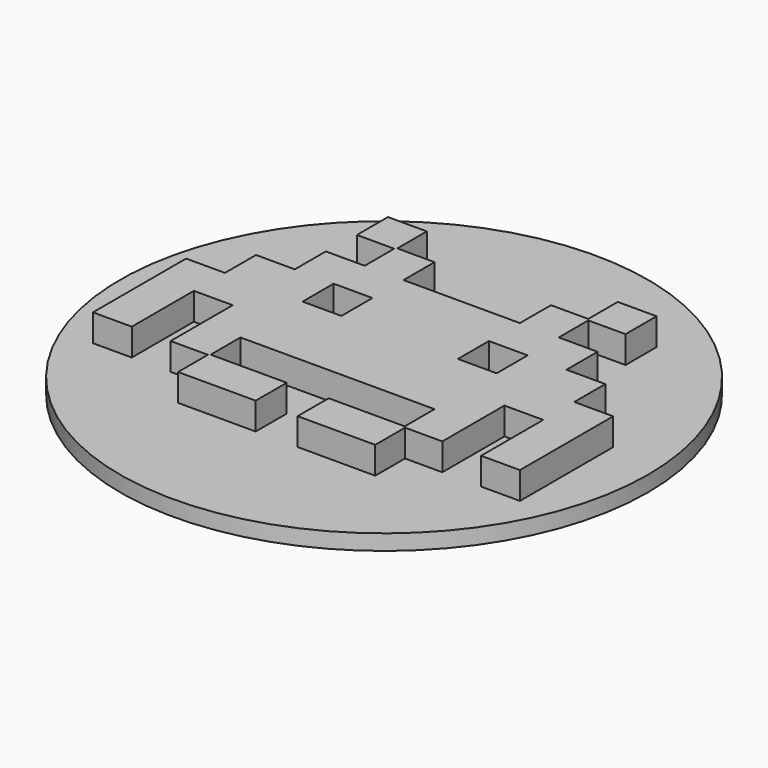
from build123d import *

# Parameters (mm, degrees)
BOX011_W       = 10
BOX011_H       = 10
BOX011_DEPTH   = 10
BOX012_W       = 10
BOX012_H       = 10
BOX012_DEPTH   = 10
BOX001_W       = 10
BOX001_H       = 10
BOX001_DEPTH   = 10
BOX003_W       = 10
BOX003_H       = 10
BOX003_DEPTH   = 10
BOX020_W       = 10
BOX020_H       = 10
BOX020_DEPTH   = 10
BOX019_W       = 10
BOX019_H       = 10
BOX019_DEPTH   = 10
BOX024_W       = 10
BOX024_H       = 10
BOX024_DEPTH   = 10
BOX017_W       = 10
BOX017_H       = 10
BOX017_DEPTH   = 10
BOX007_W       = 10
BOX007_H       = 10
BOX007_DEPTH   = 10
BOX013_W       = 10
BOX013_H       = 10
BOX013_DEPTH   = 10
BOX006_W       = 10
BOX006_H       = 10
BOX006_DEPTH   = 10
BOX005_W       = 10
BOX005_H       = 10
BOX005_DEPTH   = 10
BOX002_W       = 10
BOX002_H       = 10
BOX002_DEPTH   = 10
BOX015_W       = 10
BOX015_H       = 10
BOX015_DEPTH   = 10
BOX023_W       = 10
BOX023_H       = 10
BOX023_DEPTH   = 10
BOX004_W       = 10
BOX004_H       = 10
BOX004_DEPTH   = 10
BOX014_W       = 10
BOX014_H       = 10
BOX014_DEPTH   = 10
BOX009_W       = 10
BOX009_H       = 10
BOX009_DEPTH   = 10
BOX016_W       = 10
BOX016_H       = 10
BOX016_DEPTH   = 10
BOX010_W       = 10
BOX010_H       = 10
BOX010_DEPTH   = 10
BOX_W          = 10
BOX_H          = 10
BOX_DEPTH      = 10
BOX022_W       = 10
BOX022_H       = 10
BOX022_DEPTH   = 10
BOX018_W       = 10
BOX018_H       = 10
BOX018_DEPTH   = 10
BOX021_W       = 10
BOX021_H       = 10
BOX021_DEPTH   = 10
BOX008_W       = 10
BOX008_H       = 10
BOX008_DEPTH   = 10
CYLINDER_R     = 68
CYLINDER_DEPTH = 4


with BuildPart() as cubo011:
    # Box011 → Box011 (new body)
    with BuildSketch(Plane(origin=(-25, -5, 0), x_dir=(1, 0, 0), z_dir=(0, 0, 1))):
        with Locations((5, 5)):
            Rectangle(BOX011_W, BOX011_H)
    extrude(amount=BOX011_DEPTH)


with BuildPart() as cubo012:
    # Box012 → Box012 (new body)
    with BuildSketch(Plane(origin=(-15, -5, 0), x_dir=(1, 0, 0), z_dir=(0, 0, 1))):
        with Locations((5, 5)):
            Rectangle(BOX012_W, BOX012_H)
    extrude(amount=BOX012_DEPTH)


with BuildPart() as cubo001:
    # Box001 → Box001 (new body)
    with BuildSketch(Plane(origin=(-34.6, 34.5, 0), x_dir=(1, 0, 0), z_dir=(0, 0, 1))):
        with Locations((5, 5)):
            Rectangle(BOX001_W, BOX001_H)
    extrude(amount=BOX001_DEPTH)


with BuildPart() as cubo003:
    # Box003 → Box003 (new body)
    with BuildSketch(Plane(origin=(-25, 15, 0), x_dir=(1, 0, 0), z_dir=(0, 0, 1))):
        with Locations((5, 5)):
            Rectangle(BOX003_W, BOX003_H)
    extrude(amount=BOX003_DEPTH)


with BuildPart() as cubo020:
    # Box020 → Box020 (new body)
    with BuildSketch(Plane(origin=(-15.4, -34.6, 0), x_dir=(1, 0, 0), z_dir=(0, 0, 1))):
        with Locations((5, 5)):
            Rectangle(BOX020_W, BOX020_H)
    extrude(amount=BOX020_DEPTH)


with BuildPart() as cubo019:
    # Box019 → Box019 (new body)
    with BuildSketch(Plane(origin=(-25.4, -34.6, 0), x_dir=(1, 0, 0), z_dir=(0, 0, 1))):
        with Locations((5, 5)):
            Rectangle(BOX019_W, BOX019_H)
    extrude(amount=BOX019_DEPTH)


with BuildPart() as cubo024:
    # Box024 → Box024 (new body)
    with BuildSketch(Plane(origin=(-5, -15, 0), x_dir=(1, 0, 0), z_dir=(0, 0, 1))):
        with Locations((5, 5)):
            Rectangle(BOX024_W, BOX024_H)
    extrude(amount=BOX024_DEPTH)


with BuildPart() as cubo017:
    # Box017 → Box017 (new body)
    with BuildSketch(Plane(origin=(-25, -15, 0), x_dir=(1, 0, 0), z_dir=(0, 0, 1))):
        with Locations((5, 5)):
            Rectangle(BOX017_W, BOX017_H)
    extrude(amount=BOX017_DEPTH)


with BuildPart() as cubo007:
    # Box007 → Box007 (new body)
    with BuildSketch(Plane(origin=(-15, 5, 0), x_dir=(1, 0, 0), z_dir=(0, 0, 1))):
        with Locations((5, 5)):
            Rectangle(BOX007_W, BOX007_H)
    extrude(amount=BOX007_DEPTH)


with BuildPart() as cubo013:
    # Box013 → Box013 (new body)
    with BuildSketch(Plane(origin=(-55, -15, 0), x_dir=(1, 0, 0), z_dir=(0, 0, 1))):
        with Locations((5, 5)):
            Rectangle(BOX013_W, BOX013_H)
    extrude(amount=BOX013_DEPTH)


with BuildPart() as cubo006:
    # Box006 → Box006 (new body)
    with BuildSketch(Plane(origin=(-35, 5, 0), x_dir=(1, 0, 0), z_dir=(0, 0, 1))):
        with Locations((5, 5)):
            Rectangle(BOX006_W, BOX006_H)
    extrude(amount=BOX006_DEPTH)


with BuildPart() as cubo005:
    # Box005 → Box005 (new body)
    with BuildSketch(Plane(origin=(-45, 5, 0), x_dir=(1, 0, 0), z_dir=(0, 0, 1))):
        with Locations((5, 5)):
            Rectangle(BOX005_W, BOX005_H)
    extrude(amount=BOX005_DEPTH)


with BuildPart() as cubo002:
    # Box002 → Box002 (new body)
    with BuildSketch(Plane(origin=(-25, 25, 0), x_dir=(1, 0, 0), z_dir=(0, 0, 1))):
        with Locations((5, 5)):
            Rectangle(BOX002_W, BOX002_H)
    extrude(amount=BOX002_DEPTH)


with BuildPart() as cubo015:
    # Box015 → Box015 (new body)
    with BuildSketch(Plane(origin=(-35, -15, 0), x_dir=(1, 0, 0), z_dir=(0, 0, 1))):
        with Locations((5, 5)):
            Rectangle(BOX015_W, BOX015_H)
    extrude(amount=BOX015_DEPTH)


with BuildPart() as cubo023:
    # Box023 → Box023 (new body)
    with BuildSketch(Plane(origin=(-5, -5, 0), x_dir=(1, 0, 0), z_dir=(0, 0, 1))):
        with Locations((5, 5)):
            Rectangle(BOX023_W, BOX023_H)
    extrude(amount=BOX023_DEPTH)


with BuildPart() as cubo004:
    # Box004 → Box004 (new body)
    with BuildSketch(Plane(origin=(-15, 15, 0), x_dir=(1, 0, 0), z_dir=(0, 0, 1))):
        with Locations((5, 5)):
            Rectangle(BOX004_W, BOX004_H)
    extrude(amount=BOX004_DEPTH)


with BuildPart() as cubo014:
    # Box014 → Box014 (new body)
    with BuildSketch(Plane(origin=(-55, -25, 0), x_dir=(1, 0, 0), z_dir=(0, 0, 1))):
        with Locations((5, 5)):
            Rectangle(BOX014_W, BOX014_H)
    extrude(amount=BOX014_DEPTH)


with BuildPart() as cubo009:
    # Box009 → Box009 (new body)
    with BuildSketch(Plane(origin=(-45, -5, 0), x_dir=(1, 0, 0), z_dir=(0, 0, 1))):
        with Locations((5, 5)):
            Rectangle(BOX009_W, BOX009_H)
    extrude(amount=BOX009_DEPTH)


with BuildPart() as cubo016:
    # Box016 → Box016 (new body)
    with BuildSketch(Plane(origin=(-35, -25, 0), x_dir=(1, 0, 0), z_dir=(0, 0, 1))):
        with Locations((5, 5)):
            Rectangle(BOX016_W, BOX016_H)
    extrude(amount=BOX016_DEPTH)


with BuildPart() as cubo010:
    # Box010 → Box010 (new body)
    with BuildSketch(Plane(origin=(-35, -5, 0), x_dir=(1, 0, 0), z_dir=(0, 0, 1))):
        with Locations((5, 5)):
            Rectangle(BOX010_W, BOX010_H)
    extrude(amount=BOX010_DEPTH)


with BuildPart() as cubo:
    # Box → Box (new body)
    with BuildSketch(Plane(origin=(-35, 15, 0), x_dir=(1, 0, 0), z_dir=(0, 0, 1))):
        with Locations((5, 5)):
            Rectangle(BOX_W, BOX_H)
    extrude(amount=BOX_DEPTH)


with BuildPart() as cubo022:
    # Box022 → Box022 (new body)
    with BuildSketch(Plane(origin=(-5, 5, 0), x_dir=(1, 0, 0), z_dir=(0, 0, 1))):
        with Locations((5, 5)):
            Rectangle(BOX022_W, BOX022_H)
    extrude(amount=BOX022_DEPTH)


with BuildPart() as cubo018:
    # Box018 → Box018 (new body)
    with BuildSketch(Plane(origin=(-15, -15, 0), x_dir=(1, 0, 0), z_dir=(0, 0, 1))):
        with Locations((5, 5)):
            Rectangle(BOX018_W, BOX018_H)
    extrude(amount=BOX018_DEPTH)


with BuildPart() as cubo021:
    # Box021 → Box021 (new body)
    with BuildSketch(Plane(origin=(-5, 15, 0), x_dir=(1, 0, 0), z_dir=(0, 0, 1))):
        with Locations((5, 5)):
            Rectangle(BOX021_W, BOX021_H)
    extrude(amount=BOX021_DEPTH)


with BuildPart() as obj1:
    # Box008 → Box008 (new body)
    with BuildSketch(Plane(origin=(-55, -5, 0), x_dir=(1, 0, 0), z_dir=(0, 0, 1))):
        with Locations((5, 5)):
            Rectangle(BOX008_W, BOX008_H)
    extrude(amount=BOX008_DEPTH)

    # Fusion: union Cubo011, Cubo012, Cubo001, Cubo003, Cubo020, Cubo019, Cubo024, Cubo017, Cubo007, Cubo013, Cubo006, Cubo005, Cubo002, Cubo015, Cubo023, Cubo004, Cubo014, Cubo009, Cubo016, Cubo010, Cubo, Cubo022, Cubo018, Cubo021
    add(cubo011.part)
    add(cubo012.part)
    add(cubo001.part)
    add(cubo003.part)
    add(cubo020.part)
    add(cubo019.part)
    add(cubo024.part)
    add(cubo017.part)
    add(cubo007.part)
    add(cubo013.part)
    add(cubo006.part)
    add(cubo005.part)
    add(cubo002.part)
    add(cubo015.part)
    add(cubo023.part)
    add(cubo004.part)
    add(cubo014.part)
    add(cubo009.part)
    add(cubo016.part)
    add(cubo010.part)
    add(cubo.part)
    add(cubo022.part)
    add(cubo018.part)
    add(cubo021.part)


with BuildPart() as invaders:
    # Part__Mirroring: instance of obj1
    add(obj1.part.mirror(Plane(origin=(0, 0, 0), x_dir=(0, -1, 0), z_dir=(1, 0, 0))))

    # Fusion001: union obj1
    add(obj1.part)


with BuildPart() as invaders_final:
    # Cylinder → Cylinder (new body)
    with BuildSketch(Plane.XY.offset(-1)):
        Circle(CYLINDER_R)
    extrude(amount=CYLINDER_DEPTH)

    # Fusion002: union Invaders
    add(invaders.part)


solid = invaders_final.part
